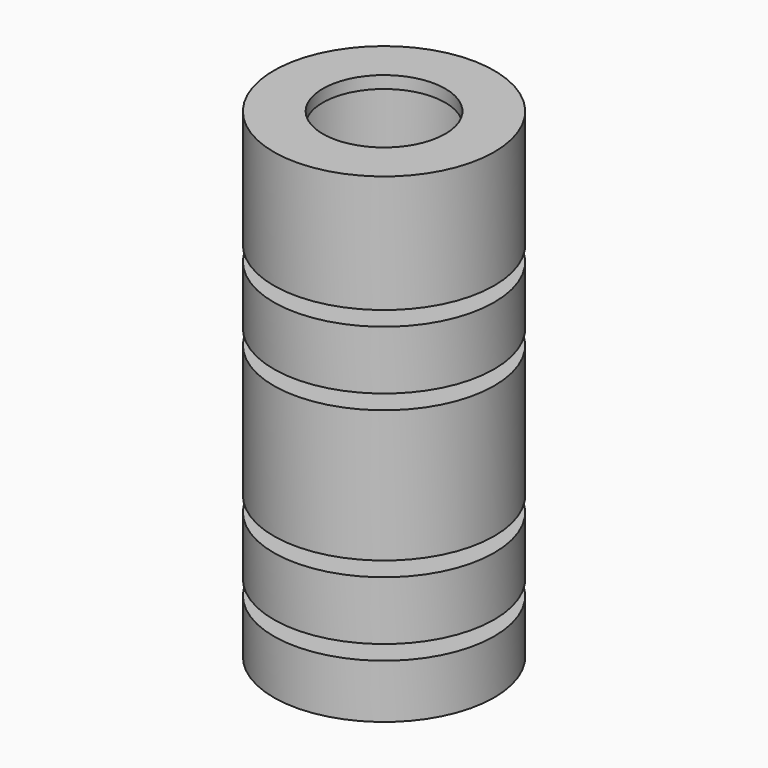
from build123d import *

# Parameters (mm, degrees)
CYLINDER011_R     = 2.5
CYLINDER011_DEPTH = 25
CYLINDER010_R     = 4.5
CYLINDER010_DEPTH = 0.5
CYLINDER009_R     = 0.65
CYLINDER009_DEPTH = 25
CYLINDER008_R     = 4.5
CYLINDER008_DEPTH = 0.2
CYLINDER_R        = 3.175
CYLINDER_DEPTH    = 25
CYLINDER003_R     = 2
CYLINDER003_DEPTH = 2
CYLINDER004_R     = 4.5
CYLINDER004_DEPTH = 2.4
CYLINDER005_R     = 4.5
CYLINDER005_DEPTH = 5.4
CYLINDER006_R     = 4.5
CYLINDER006_DEPTH = 2.4
CYLINDER007_R     = 4.5
CYLINDER007_DEPTH = 4.8
CYLINDER001_R     = 4.5
CYLINDER001_DEPTH = 2.2


with BuildPart() as aperture002:
    # Cylinder011 → Cylinder011 (new body)
    with BuildSketch(Plane.XY.offset(10)):
        Circle(CYLINDER011_R)
    extrude(amount=CYLINDER011_DEPTH)


with BuildPart() as cut003:
    # Cylinder010 → Cylinder010 (new body)
    with BuildSketch(Plane.XY.offset(19.1)):
        Circle(CYLINDER010_R)
    extrude(amount=CYLINDER010_DEPTH)

    # Cut003: cut Aperture002
    add(aperture002.part, mode=Mode.SUBTRACT)


with BuildPart() as aperture1:
    # Cylinder009 → Cylinder009 (new body)
    with BuildSketch(Plane.XY):
        Circle(CYLINDER009_R)
    extrude(amount=CYLINDER009_DEPTH)


with BuildPart() as cut:
    # Cylinder008 → Cylinder008 (new body)
    with BuildSketch(Plane.XY.offset(2)):
        Circle(CYLINDER008_R)
    extrude(amount=CYLINDER008_DEPTH)

    # Cut: cut Aperture1
    add(aperture1.part, mode=Mode.SUBTRACT)


with BuildPart() as inner_radius:
    # Cylinder → Cylinder (new body)
    with BuildSketch(Plane.XY):
        Circle(CYLINDER_R)
    extrude(amount=CYLINDER_DEPTH)


with BuildPart() as cylinder003:
    # Cylinder003 → Cylinder003 (new body)
    with BuildSketch(Plane.XY.offset(2.5)):
        Circle(CYLINDER003_R)
    extrude(amount=CYLINDER003_DEPTH)


with BuildPart() as obj1:
    # Cylinder004 → Cylinder004 (new body)
    with BuildSketch(Plane.XY.offset(2.8)):
        Circle(CYLINDER004_R)
    extrude(amount=CYLINDER004_DEPTH)


with BuildPart() as obj2:
    # Cylinder005 → Cylinder005 (new body)
    with BuildSketch(Plane.XY.offset(5.8)):
        Circle(CYLINDER005_R)
    extrude(amount=CYLINDER005_DEPTH)


with BuildPart() as obj3:
    # Cylinder006 → Cylinder006 (new body)
    with BuildSketch(Plane.XY.offset(11.8)):
        Circle(CYLINDER006_R)
    extrude(amount=CYLINDER006_DEPTH)


with BuildPart() as obj4:
    # Cylinder007 → Cylinder007 (new body)
    with BuildSketch(Plane.XY.offset(14.8)):
        Circle(CYLINDER007_R)
    extrude(amount=CYLINDER007_DEPTH)


with BuildPart() as fusion001:
    # Cylinder001 → Cylinder001 (new body)
    with BuildSketch(Plane.XY):
        Circle(CYLINDER001_R)
    extrude(amount=CYLINDER001_DEPTH)

    # Fusion: union Cylinder003, obj1, obj2, obj3, obj4
    add(cylinder003.part)
    add(obj1.part)
    add(obj2.part)
    add(obj3.part)
    add(obj4.part)

    # Cut004: cut Inner radius
    add(inner_radius.part, mode=Mode.SUBTRACT)

    # Fusion001: union Cut003, Cut
    add(cut003.part)
    add(cut.part)


solid = fusion001.part
